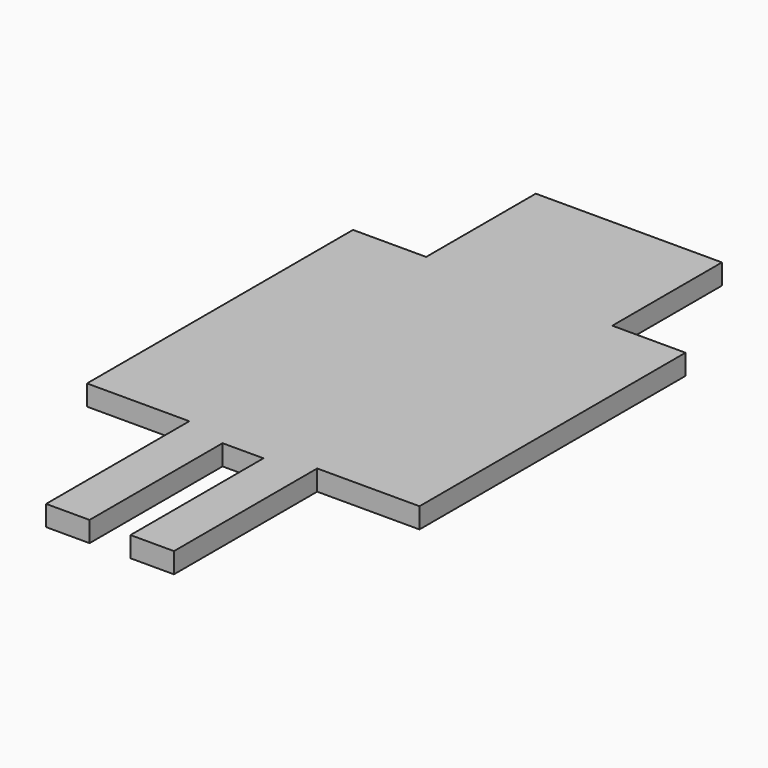
from build123d import *

# Parameters (mm, degrees)
F1_DEPTH = 5.08


with BuildPart() as f1:
    # F0 (on Top) → F1 (new body)
    with BuildSketch(Plane.XY):
        Polygon((41.275, -41.275), (41.275, 41.275), (23.107013, 41.275), (23.107013, 75.294286), (-23.107013, 75.294286), (-23.107013, 41.275), (-41.275, 41.275), (-41.275, -41.275), (-15.875, -41.275), (-15.875, -85.725), (-5.08, -85.725), (-5.08, -44.45), (5.08, -44.45), (5.08, -85.725), (15.875, -85.725), (15.875, -41.275), align=None)
    extrude(amount=F1_DEPTH)


solid = f1.part
